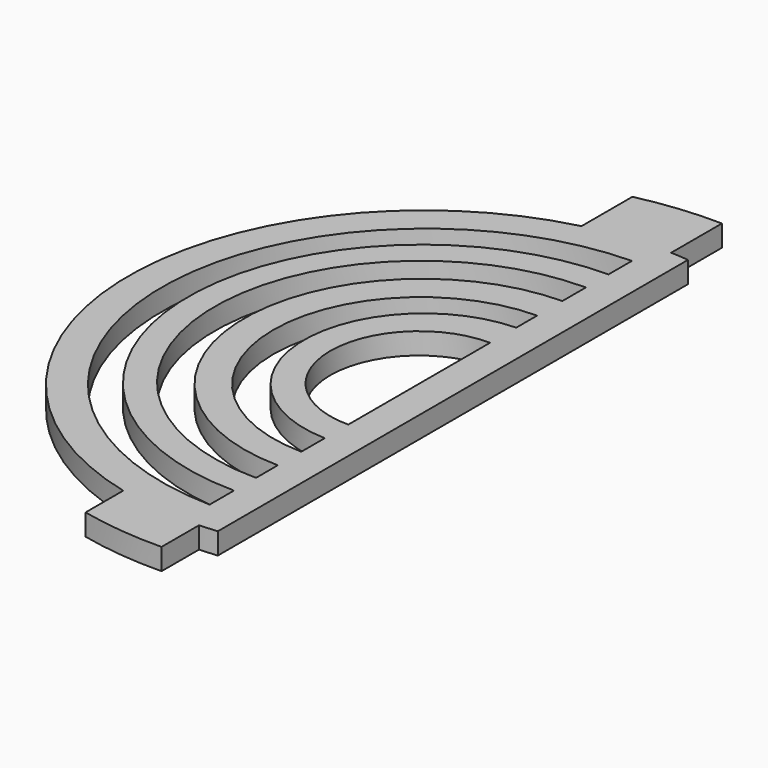
from build123d import *

# Parameters (mm, degrees)
F1_DEPTH = 2
F3_DEPTH = 4


with BuildPart() as f1:
    # F0 (on Top) → F1 (new body)
    with BuildSketch(Plane.XY):
        with BuildLine():
            Line((-11.113913, -8.946678), (-11.113913, 45.908373))
            ThreePointArc((-11.113913, 45.908373), (-11.943595, 45.97737), (-12.774983, 46.021273))
            Line((-12.774983, 46.021273), (-12.774983, 51.942695))
            ThreePointArc((-12.774983, 51.942695), (-16.661516, 51.777692), (-20.500943, 51.152251))
            Line((-20.500943, 51.152251), (-20.500943, 45.216891))
            ThreePointArc((-20.500943, 45.216891), (-41.372447, 18.480848), (-20.500943, -8.255196))
            Line((-20.500943, -8.255196), (-20.500943, -12.646276))
            ThreePointArc((-20.500943, -12.646276), (-16.661516, -13.271717), (-12.774983, -13.436719))
            Line((-12.774983, -13.436719), (-12.774983, -9.059578))
            ThreePointArc((-12.774983, -9.059578), (-11.943595, -9.015674), (-11.113913, -8.946678))
        make_face()
    extrude(amount=-F1_DEPTH)

    # F2 (on Top) → F3 (cut)
    with BuildSketch(Plane.XY):
        with BuildLine():
            Line((-14.205587, 10.137872), (-14.205587, 26.689431))
            ThreePointArc((-14.205587, 26.689431), (-22.497851, 18.413651), (-14.205587, 10.137872))
        make_face()
        with BuildLine():
            Line((-14.205587, 29.735729), (-14.205587, 32.172769))
            ThreePointArc((-14.205587, 32.172769), (-27.81698, 18.413651), (-14.205587, 4.654533))
            Line((-14.205587, 4.654533), (-14.205587, 7.396203))
            ThreePointArc((-14.205587, 7.396203), (-25.070721, 18.565966), (-14.205587, 29.735729))
        make_face()
        with BuildLine():
            ThreePointArc((-14.205587, 1.912864), (-30.605126, 18.515195), (-14.205587, 35.117526))
            Line((-14.205587, 35.117526), (-14.205587, 37.859194))
            ThreePointArc((-14.205587, 37.859194), (-33.448043, 18.616738), (-14.205587, -0.625718))
            Line((-14.205587, -0.625718), (-14.205587, 1.912864))
        make_face()
        with BuildLine():
            ThreePointArc((-14.205587, -3.196367), (-35.923159, 18.64843), (-14.205587, 40.493228))
            Line((-14.205587, 40.493228), (-14.205587, 43.230407))
            ThreePointArc((-14.205587, 43.230407), (-38.364807, 18.595791), (-14.205587, -6.038824))
            Line((-14.205587, -6.038824), (-14.205587, -3.196367))
        make_face()
    extrude(amount=-F3_DEPTH, mode=Mode.SUBTRACT)


solid = f1.part
